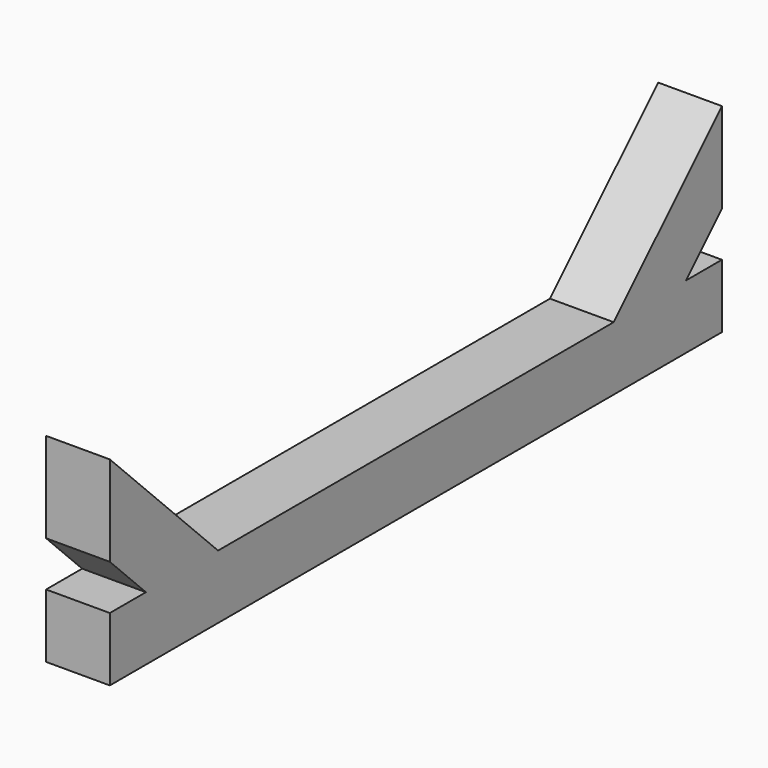
from build123d import *

# Parameters (mm, degrees)
F1_DEPTH = 101.6


with BuildPart() as f1:
    # F0 (on Right) → F1 (new body)
    with BuildSketch(Plane.YZ):
        Polygon((-609.6, 128.40195), (-537.757951, 56.559901), (-394.073853, 56.559901), (-609.6, 272.086048), align=None)
        Polygon((-537.757951, 56.559901), (-609.6, 56.559901), (-609.6, -45.040099), (0, -45.040099), (0, 56.559901), (-394.073853, 56.559901), align=None)
        Polygon((609.6, 272.086048), (394.073853, 56.559901), (537.757951, 56.559901), (609.6, 128.40195), align=None)
        Polygon((0, 56.559901), (0, -45.040099), (609.6, -45.040099), (609.6, 56.559901), (537.757951, 56.559901), (394.073853, 56.559901), align=None)
    extrude(amount=F1_DEPTH)


solid = f1.part
